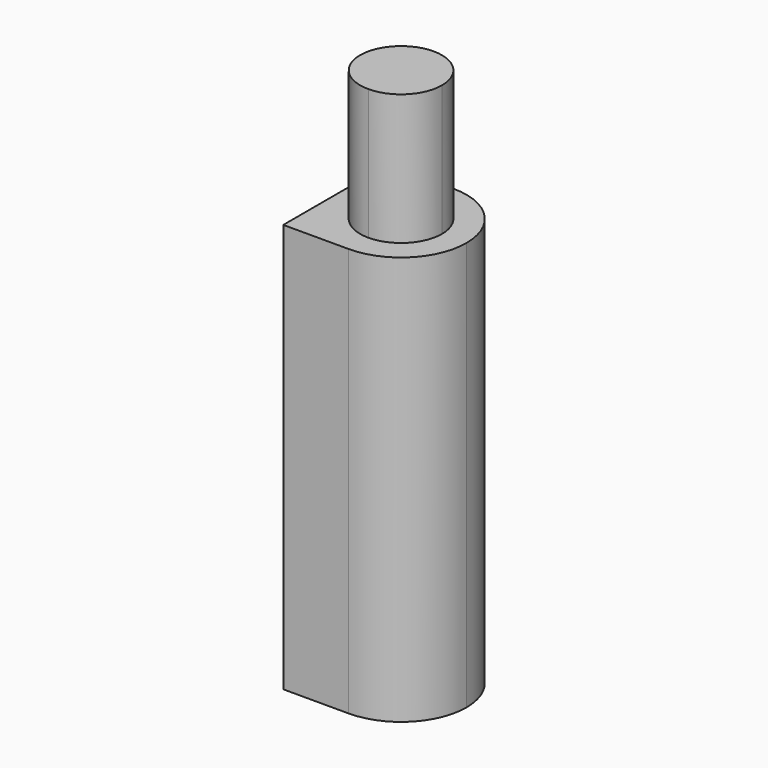
from build123d import *

# Parameters (mm, degrees)
F1_DEPTH = 25
F2_DEPTH = 8


with BuildPart() as f1:
    # F0 (on Top) → F1 (new body)
    with BuildSketch(Plane.XY):
        with BuildLine():
            ThreePointArc((0, -4), (2.828427, -2.828427), (4, 0))
            ThreePointArc((4, 0), (2.828427, 2.828427), (0, 4))
            Line((0, 4), (0, 2.5))
            ThreePointArc((0, 2.5), (1.767767, 1.767767), (2.5, 0))
            ThreePointArc((2.5, 0), (1.767767, -1.767767), (0, -2.5))
            Line((0, -2.5), (0, -4))
        make_face()
        with BuildLine():
            Line((0, 2.5), (0, 4))
            ThreePointArc((0, 4), (-2.828427, 2.828427), (-4, 0))
            ThreePointArc((-4, 0), (-2.828427, -2.828427), (0, -4))
            Line((0, -4), (0, -2.5))
            ThreePointArc((0, -2.5), (-2.5, 0), (0, 2.5))
        make_face()
        with BuildLine():
            Line((-4, -4), (0, -4))
            ThreePointArc((0, -4), (-2.828427, -2.828427), (-4, 0))
            Line((-4, 0), (-4, -4))
        make_face()
        with BuildLine():
            ThreePointArc((-4, 0), (-2.828427, 2.828427), (0, 4))
            Line((0, 4), (-4, 4))
            Line((-4, 4), (-4, 0))
        make_face()
        with BuildLine():
            ThreePointArc((2.5, 0), (1.767767, 1.767767), (0, 2.5))
            Line((0, 2.5), (0, -2.5))
            ThreePointArc((0, -2.5), (1.767767, -1.767767), (2.5, 0))
        make_face()
        with BuildLine():
            Line((0, -2.5), (0, 2.5))
            ThreePointArc((0, 2.5), (-2.5, 0), (0, -2.5))
        make_face()
    extrude(amount=-F1_DEPTH)

    # F0 (on Top) → F2 (join)
    with BuildSketch(Plane.XY):
        with BuildLine():
            Line((0, -2.5), (0, 2.5))
            ThreePointArc((0, 2.5), (-2.5, 0), (0, -2.5))
        make_face()
        with BuildLine():
            ThreePointArc((2.5, 0), (1.767767, 1.767767), (0, 2.5))
            Line((0, 2.5), (0, -2.5))
            ThreePointArc((0, -2.5), (1.767767, -1.767767), (2.5, 0))
        make_face()
    extrude(amount=F2_DEPTH)


solid = f1.part
